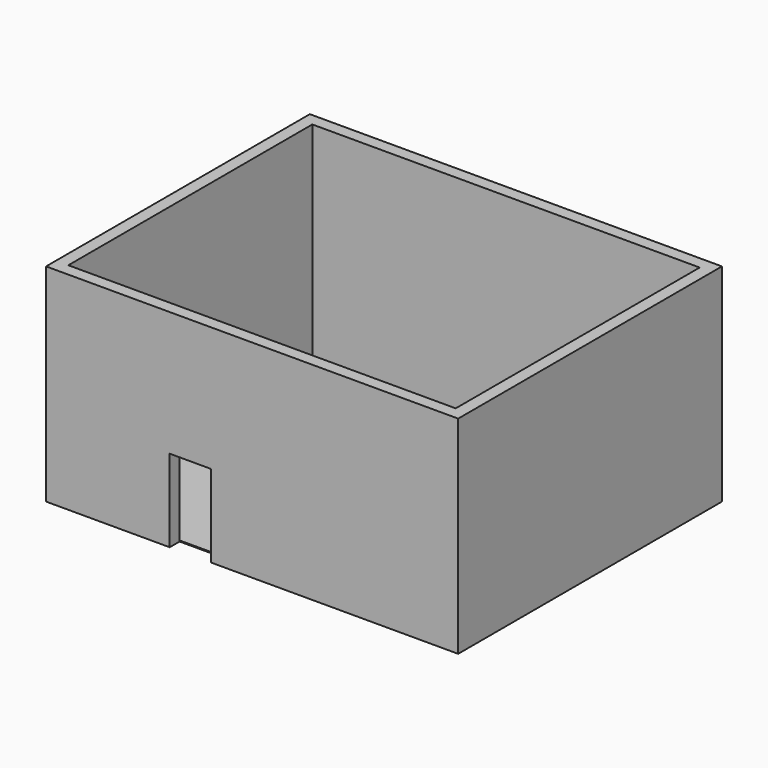
from build123d import *

# Parameters (mm, degrees)
F0_W     = 10000
F0_H     = 8000
F1_DEPTH = 25
F2_W     = 10000
F2_H     = 8000
F2_W_2   = 9400
F2_H_2   = 7400
F3_DEPTH = 5000
F4_W     = 1000
F4_H     = 2000
F5_DEPTH = 300


with BuildPart() as f1:
    # F0 (on Top) → F1 (new body)
    with BuildSketch(Plane.XY):
        Rectangle(F0_W, F0_H)
    extrude(amount=F1_DEPTH)

    # F2 (on face) → F3 (join)
    with BuildSketch(Plane.XY.offset(25)):
        Rectangle(F2_W, F2_H)
        Rectangle(F2_W_2, F2_H_2, mode=Mode.SUBTRACT)
    extrude(amount=F3_DEPTH)

    # F4 (on face) → F5 (cut, through all)
    with BuildSketch(Plane.XZ.offset(4000)):
        with Locations((-1500, 1000)):
            Rectangle(F4_W, F4_H)
    extrude(amount=-F5_DEPTH, mode=Mode.SUBTRACT)


solid = f1.part
